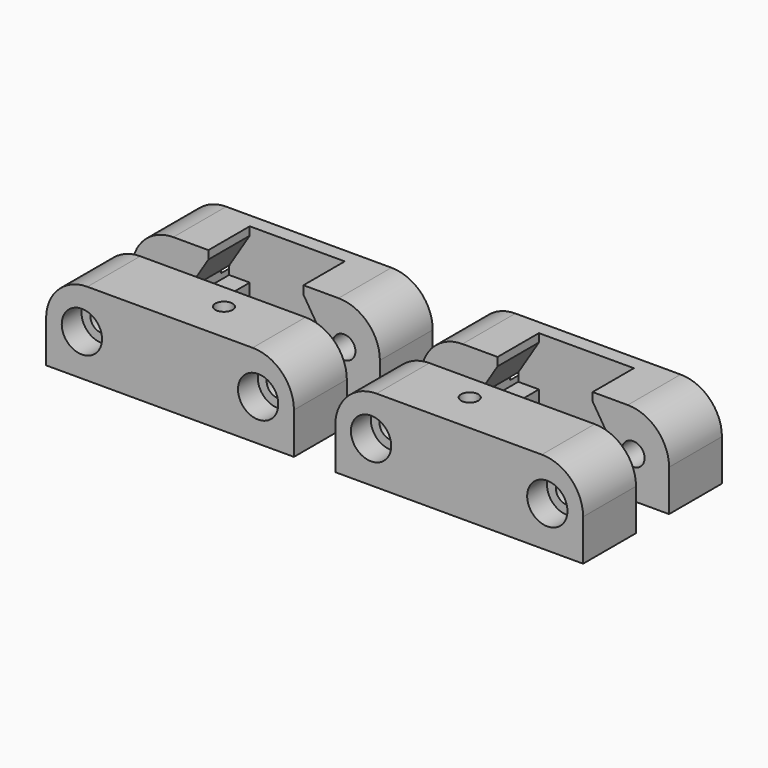
from build123d import *

# Parameters (mm, degrees)
F0_W           = 60
F0_H           = 16
F1_DEPTH       = 20
F3_D           = 5.5
F3_CBORE_D     = 9.75
F3_CBORE_DEPTH = 6
F5_DEPTH       = 12.5
F7_DEPTH       = 3
F9_D           = 5.5
F9_CBORE_D     = 9.75
F9_CBORE_DEPTH = 6
F10_D          = 4.2
F13_R          = 10
F13_2_R        = 10
F13_3_R        = 10
F13_4_R        = 10


with BuildPart() as f1:
    # F0 (on Top) → F1 (new body)
    with BuildSketch(Plane.XY):
        with Locations((0, 13)):
            Rectangle(F0_W, F0_H)
    extrude(amount=F1_DEPTH)

    # F3 (through all)
    with Locations(Plane(origin=(0, 21, 0), x_dir=(-1, 0, 0), z_dir=(0, 1, 0))):
        with Locations((-21.3333333333, 10), (21.3333333333, 10)):
            CounterBoreHole(F3_D / 2, F3_CBORE_D / 2, F3_CBORE_DEPTH)

    # F4 (on face) → F5 (cut)
    with BuildSketch(Plane.XZ.offset(-5)):
        Polygon((11.5, 8), (16.5, 8), (16.5, 10), (11.5, 18), (11.5, 20), (-11.5, 20), (-11.5, 18), (-16.5, 10), (-16.5, 8), (-11.5, 8), (-11.5, 3), (11.5, 3), align=None)
    extrude(amount=-F5_DEPTH, mode=Mode.SUBTRACT)

    # F6 (on face) → F7 (cut, through all)
    with BuildSketch(Plane(origin=(0, 0, 0), x_dir=(1, 0, 0), z_dir=(0, 0, -1))):
        with BuildLine():
            Line((-11.5, -4), (-11.5, -11.25))
            ThreePointArc((-11.5, -11.25), (-6.7982570343, -17.3051961286), (0.2329280499, -14.25))
            Line((0.2329280499, -14.25), (1, -14.25))
            ThreePointArc((1, -14.25), (3.1213203436, -13.3713203436), (4, -11.25))
            Line((4, -11.25), (4, -4))
            Line((4, -4), (-11.5, -4))
        make_face()
    extrude(amount=-F7_DEPTH, mode=Mode.SUBTRACT)


with BuildPart() as f1b:
    # F0 (on Top) → F1, piece 2 (new body)
    with BuildSketch(Plane.XY):
        with Locations((0, -13)):
            Rectangle(F0_W, F0_H)
    extrude(amount=F1_DEPTH)

    # F9 (through all)
    with Locations(Plane.XZ.offset(21)):
        with Locations((-21.3333333333, 10), (21.3333333333, 10)):
            CounterBoreHole(F9_D / 2, F9_CBORE_D / 2, F9_CBORE_DEPTH)

    # F10 (through all)
    with Locations(Plane(origin=(0, 0, 0), x_dir=(1, 0, 0), z_dir=(0, 0, -1))):
        with Locations((-5.25, 11.25)):
            Hole(F10_D / 2)


with BuildPart() as f11_1:
    # F11: instance of F1b
    add(f1b.part.mirror(Plane.YZ))


with BuildPart() as f11_2:
    # F11: instance of F1
    add(f1.part.mirror(Plane.YZ))


with BuildPart() as f11_2_1:
    # F12: moved
    add(f11_2.part.moved(Location((-70, 0, 0))))

    # F13#4
    f13_4_edges = [f11_2_1.edges().sort_by_distance(p)[0] for p in [
        (-40, 13, 20),
        (-100, 13, 20),
    ]]
    fillet(f13_4_edges, radius=F13_4_R)


with BuildPart() as f11_1_1:
    # F12: moved
    add(f11_1.part.moved(Location((-70, 0, 0))))

    # F13#3
    f13_3_edges = [f11_1_1.edges().sort_by_distance(p)[0] for p in [
        (-40, -13, 20),
        (-100, -13, 20),
    ]]
    fillet(f13_3_edges, radius=F13_3_R)


with BuildPart() as f1b_1:
    add(f1b.part)

    # F13
    f13_edges = [f1b_1.edges().sort_by_distance(p)[0] for p in [
        (30, -13, 20),
        (-30, -13, 20),
    ]]
    fillet(f13_edges, radius=F13_R)


with BuildPart() as f1_1:
    add(f1.part)

    # F13#2
    f13_2_edges = [f1_1.edges().sort_by_distance(p)[0] for p in [
        (30, 13, 20),
        (-30, 13, 20),
    ]]
    fillet(f13_2_edges, radius=F13_2_R)


solid = Compound([f11_2_1.part, f11_1_1.part, f1b_1.part, f1_1.part])
